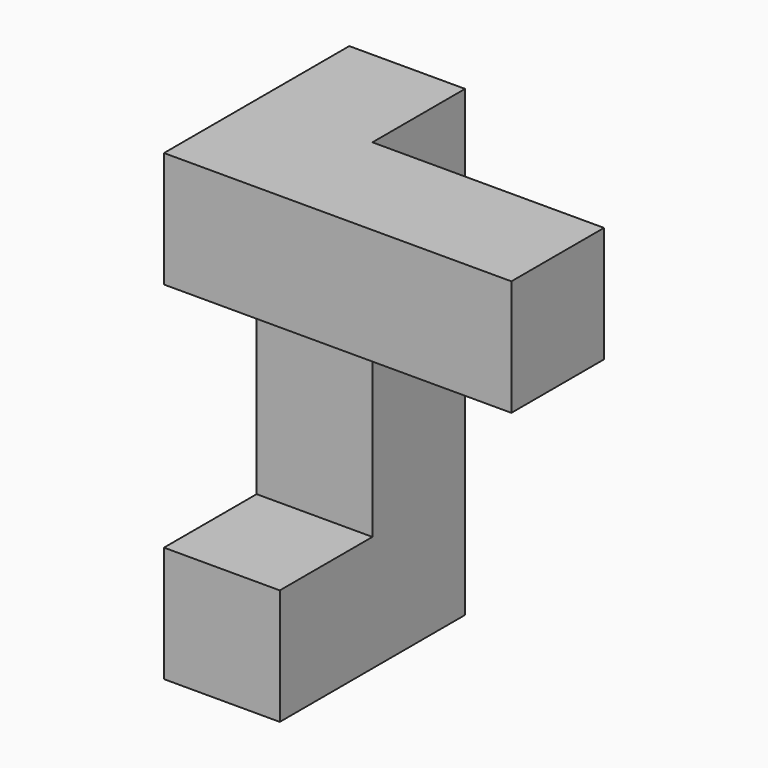
from build123d import *

# Parameters (mm, degrees)
F1_DEPTH = 25.4
F2_W     = 25.4
F2_H     = 25.4
F3_DEPTH = 50.8


with BuildPart() as f1:
    # F0 (on Right) → F1 (new body)
    with BuildSketch(Plane.YZ):
        Polygon((50.8, 101.6), (0, 101.6), (0, 76.2), (25.4, 76.2), (25.4, 25.4), (0, 25.4), (0, 0), (50.8, 0), align=None)
    extrude(amount=F1_DEPTH)

    # F2 (on face) → F3 (join)
    with BuildSketch(Plane.YZ.offset(25.4)):
        with Locations((12.7, 88.9)):
            Rectangle(F2_W, F2_H)
    extrude(amount=F3_DEPTH)


solid = f1.part
